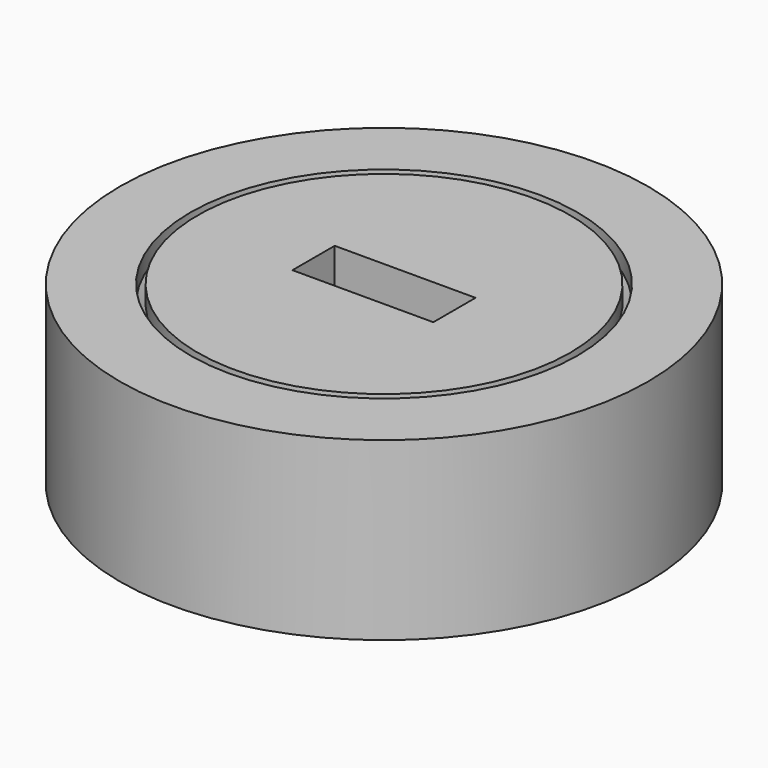
from build123d import *

# Parameters (mm, degrees)
F2_W     = 8
F2_H     = 3
F3_DEPTH = 5


with BuildPart() as f1:
    # F0 (on Front) → F1 (revolve)
    with BuildSketch(Plane.XZ):
        Polygon((0, 10), (0, 0), (2.5, 0), (2.5, 0.924264), (10.575736, 9), (10.575736, 10), align=None)
        Polygon((3, 1), (3, 0), (15, 0), (15, 10), (11, 10), (11, 9), align=None)
    revolve(axis=Axis((0, 0, 5), (0, 0, 1)))

    # F2 (on face) → F3 (cut)
    with BuildSketch(Plane.XY.offset(10)):
        Rectangle(F2_W, F2_H)
    extrude(amount=-F3_DEPTH, mode=Mode.SUBTRACT)


solid = f1.part
